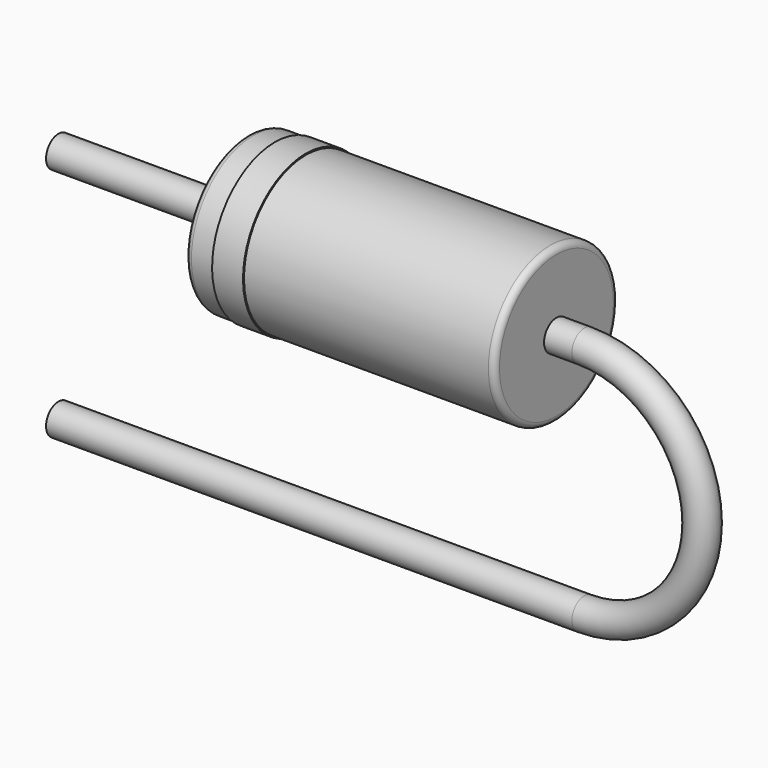
from build123d import *

# Parameters (mm, degrees)
SKETCH_R    = 0.25
SKETCH002_W = 5
SKETCH002_H = 1.25
FILLET_R    = 0.1
SKETCH003_W = 0.5
SKETCH003_H = 0.02


with BuildPart() as sweep_body:
    # Sweep: sweep along a path in Sketch001
    with BuildLine(Plane.XZ) as sweep_path:
        Line((-2.5, 0), (6, 0))
        ThreePointArc((6, 0), (7.905, 1.905), (6, 3.81))
        Line((6, 3.81), (-2.5, 3.81))
    # Sketch → Sweep (sweep)
    with BuildSketch(Plane.YZ.offset(-2.5)):
        Circle(SKETCH_R)
    sweep(path=sweep_path.line, is_frenet=True)


with BuildPart() as fillet_body:
    # Sketch002 → Revolution (revolve)
    with BuildSketch(Plane.XZ):
        with Locations((3.05, 4.435)):
            Rectangle(SKETCH002_W, SKETCH002_H)
    revolve(axis=Axis((0.55, 0, 3.81), (1, 0, 0)))

    # Fillet
    fillet_edges = [fillet_body.edges().sort_by_distance(p)[0] for p in [
        (0.55, 0, 2.56),
        (5.55, 0, 2.56),
    ]]
    fillet(fillet_edges, radius=FILLET_R)


with BuildPart() as revolution001:
    # Sketch003 → Revolution001 (revolve)
    with BuildSketch(Plane.XZ):
        with Locations((1.25, 5.07)):
            Rectangle(SKETCH003_W, SKETCH003_H)
    revolve(axis=Axis((0, 0, 3.81), (1, 0, 0)))


solid = Compound([sweep_body.part, fillet_body.part, revolution001.part])
